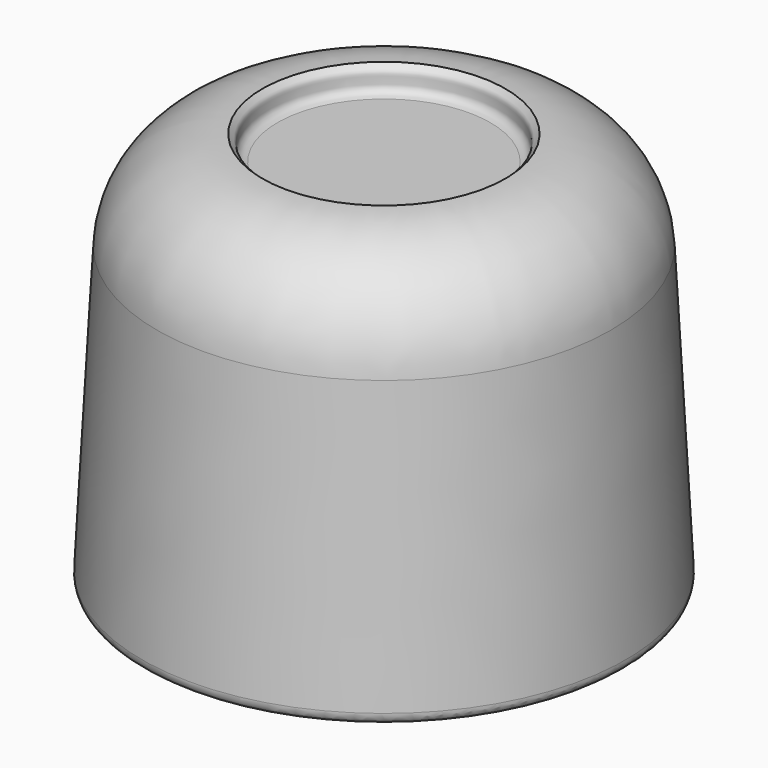
from build123d import *

# Parameters (mm, degrees)
F3_R     = 1.25
F4_DEPTH = 5


with BuildPart() as f2:
    # F1 (on Right) → F2 (revolve)
    with BuildSketch(Plane.YZ):
        with BuildLine():
            Line((-5.3717833243, 2.3256304618), (-5.7258238085, -4.4241435826))
            add(Edge.make_bspline(
                [(-5.7258238085, -4.4241435826), (-5.7264351493, -4.4368966068), (-5.7277565417, -4.464461837), (-5.7161348447, -4.5164232593), (-5.6911095307, -4.5793291163), (-5.6496734627, -4.628407601), (-5.6046093237, -4.659526133), (-5.580468569, -4.6761962585)],
                knots=[0, 0, 0, 0, 0.1612359922, 0.3485061387, 0.5588807728, 0.7636934523, 1, 1, 1, 1], degree=3))
            Line((-5.580468569, -4.6761962585), (0, -4.6761962585))
            Line((0, -4.6761962585), (0, 4.0844450705))
            Line((0, 4.0844450705), (-2.5177469943, 4.0844450705))
            add(Edge.make_bspline(
                [(-2.8773788363, 4.6709873714), (-2.826659029, 4.6275849969), (-2.7331127599, 4.547534807), (-2.7357495643, 4.4104777312), (-2.7417141422, 4.2214380375), (-2.643748447, 4.1210795553), (-2.5745941834, 4.1023556975), (-2.5361450378, 4.0902416719), (-2.5177469943, 4.0844450705)],
                knots=[0, 0, 0, 0, 0.2051585718, 0.3783890356, 0.5853177161, 0.7573058689, 0.8838700543, 1, 1, 1, 1], degree=3))
            ThreePointArc((-2.8773788363, 4.6709873714), (-4.5955361552, 3.999193216), (-5.3717833243, 2.3256304618))
        make_face()
    revolve(axis=Axis((0, 0, -0.295875594), (0, 0, -1)))

    # F3 (on face) → F4 (cut)
    with BuildSketch(Plane(origin=(0, 0, -4.6761962585), x_dir=(1, 0, 0), z_dir=(0, 0, -1))):
        Circle(F3_R)
    extrude(amount=-F4_DEPTH, mode=Mode.SUBTRACT)


solid = f2.part
